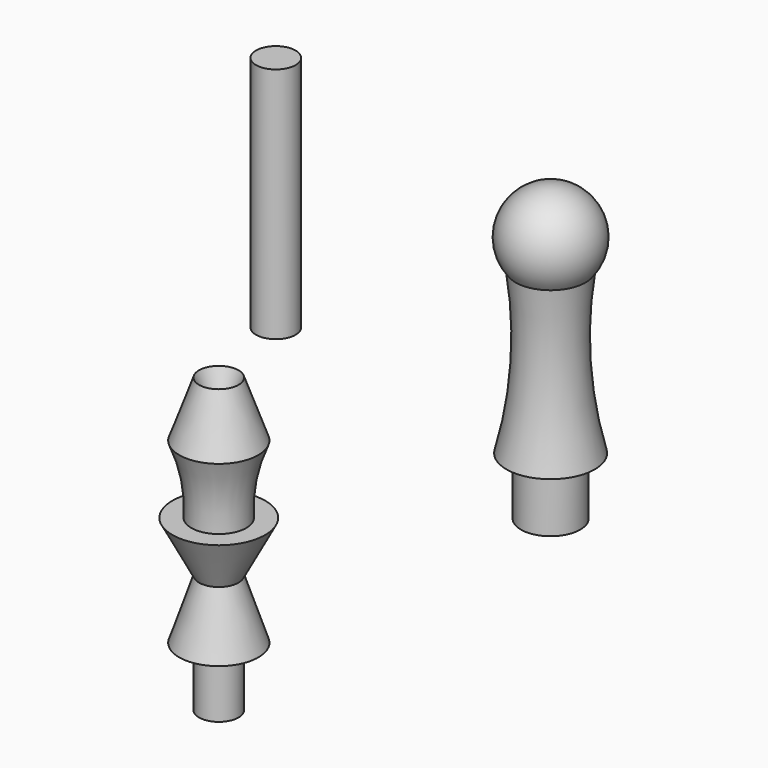
from build123d import *

# Parameters (mm, degrees)
F0_R     = 3.175
F1_DEPTH = 38.1


with BuildPart() as f1:
    # F0 (on Top) → F1 (new body)
    with BuildSketch(Plane.XY):
        with Locations((-59.287984, 18.995181)):
            Circle(F0_R)
    extrude(amount=F1_DEPTH)


with BuildPart() as f3:
    # F2 (on Right) → F3 (revolve)
    with BuildSketch(Plane.YZ):
        with BuildLine():
            Line((0, 47.073067), (0, 0))
            Line((0, 0), (4.7625, 0))
            Line((4.7625, 0), (4.7625, 9.263063))
            Line((4.7625, 9.263063), (7.083322, 9.263063))
            ThreePointArc((7.083322, 9.263063), (5.026822, 22.149482), (5.619855, 35.185483))
            ThreePointArc((5.619855, 35.185483), (6.574523, 42.908988), (0, 47.073067))
        make_face()
    revolve(axis=Axis((0, 0, 23.536534), (0, 0, 1)))


with BuildPart() as f5:
    # F4 (on Right) → F5 (revolve)
    with BuildSketch(Plane.YZ):
        with BuildLine():
            Line((-66.548005, 38.1), (-66.548005, 0))
            Line((-66.548005, 0), (-63.373005, 0))
            Line((-63.373005, 0), (-63.373005, 9.525))
            Line((-63.373005, 9.525), (-60.198005, 9.525))
            Line((-60.198005, 9.525), (-63.373005, 19.05))
            Line((-63.373005, 19.05), (-59.098486, 27.175354))
            Line((-59.098486, 27.175354), (-62.136363, 27.175354))
            ThreePointArc((-62.136363, 27.175354), (-61.809706, 32.75168), (-60.198005, 38.1))
            Line((-60.198005, 38.1), (-63.373005, 46.987355))
            Line((-63.373005, 46.987355), (-66.548005, 38.1))
        make_face()
    revolve(axis=Axis((0, -66.548005, 19.05), (0, 0, 1)))


solid = Compound([f1.part, f3.part, f5.part])
